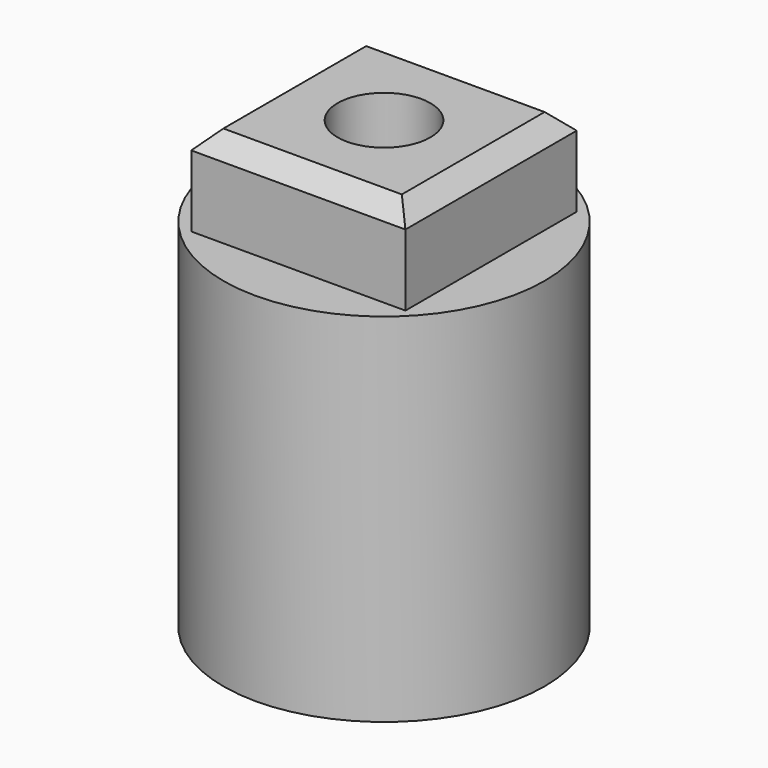
from build123d import *

# Parameters (mm, degrees)
SKETCH_R     = 9
PAD_DEPTH    = 20
SKETCH002_W  = 12
SKETCH002_H  = 12
PAD001_DEPTH = 5
SKETCH003_R  = 2.6
POCKET_DEPTH = 25
CHAMFER_SIZE = 1


with BuildPart() as part:
    # Sketch → Pad (new body)
    with BuildSketch(Plane.XY):
        Circle(SKETCH_R)
    extrude(amount=PAD_DEPTH)

    # Sketch002 (on Face3 of Pad) → Pad001 (join)
    with BuildSketch(Plane.XY.offset(20)):
        Rectangle(SKETCH002_W, SKETCH002_H)
    extrude(amount=PAD001_DEPTH)

    # Sketch003 (on Face2 of Pad001) → Pocket (cut)
    with BuildSketch(Plane(origin=(0, 0, 0), x_dir=(1, 0, 0), z_dir=(0, 0, -1))):
        Circle(SKETCH003_R)
    extrude(amount=-POCKET_DEPTH, mode=Mode.SUBTRACT)

    # Chamfer
    chamfer_edges = [part.edges().sort_by_distance(p)[0] for p in [
        (-6, 0, 25),
        (0, -6, 25),
        (6, 0, 25),
        (0, 6, 25),
    ]]
    chamfer(chamfer_edges, length=CHAMFER_SIZE)


solid = part.part
